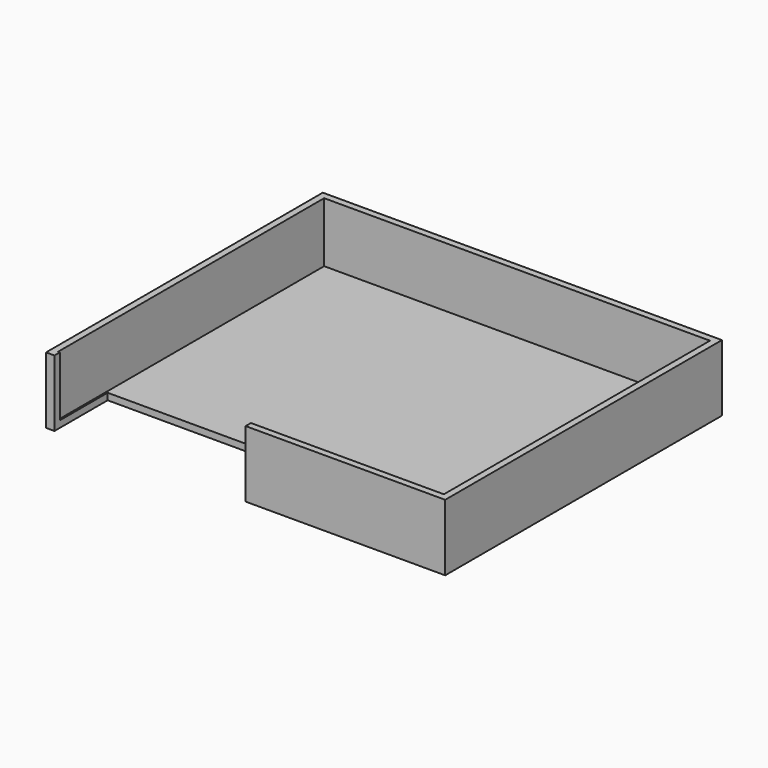
from build123d import *

# Parameters (mm, degrees)
F0_W     = 150
F0_H     = 130
F1_DEPTH = 25
F2_T     = -2.5
F3_W     = 71.858019
F3_H     = 25
F4_DEPTH = 25


with BuildPart() as f1:
    # F0 (on Top) → F1 (new body)
    with BuildSketch(Plane.XY):
        Rectangle(F0_W, F0_H)
    extrude(amount=F1_DEPTH)

    # F2
    f2_openings = [f1.faces().sort_by_distance(p)[0] for p in [
        (0, 0, 25),
    ]]
    offset(amount=F2_T, openings=f2_openings)

    # F3 (on face) → F4 (cut)
    with BuildSketch(Plane.XZ.offset(65)):
        with Locations((-35.929009, 12.5)):
            Rectangle(F3_W, F3_H)
    extrude(amount=-F4_DEPTH, mode=Mode.SUBTRACT)


solid = f1.part
